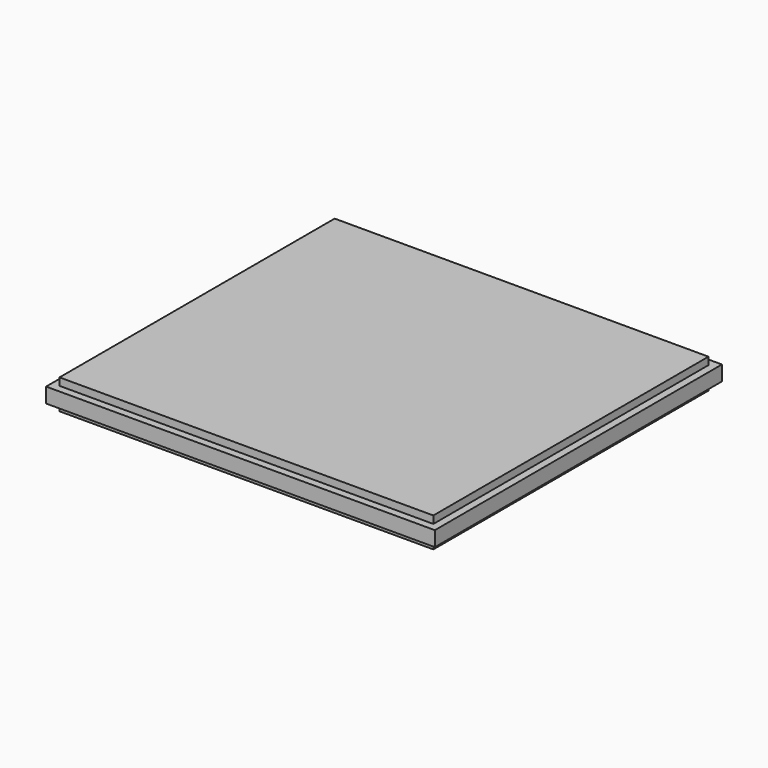
from build123d import *

# Parameters (mm, degrees)
F0_W     = 317.5
F0_H     = 292.1
F1_DEPTH = 25.4
F2_W     = 292.1
F2_H     = 12.7
F3_DEPTH = 6.35
F4_W     = 292.1
F4_H     = 12.7
F5_DEPTH = 6.35
F7_DEPTH = 6.35
F8_W     = 330.2
F8_H     = 12.7
F9_DEPTH = 6.35


with BuildPart() as f1:
    # F0 (on Top) → F1 (new body)
    with BuildSketch(Plane.XY):
        Rectangle(F0_W, F0_H)
    extrude(amount=F1_DEPTH)

    # F2 (on face) → F3 (join)
    with BuildSketch(Plane.YZ.offset(158.75)):
        with Locations((0, 12.7)):
            Rectangle(F2_W, F2_H)
    extrude(amount=F3_DEPTH)

    # F4 (on face) → F5 (join)
    with BuildSketch(Plane(origin=(-158.75, 0, 0), x_dir=(0, -1, 0), z_dir=(-1, 0, 0))):
        with Locations((0, 12.7)):
            Rectangle(F4_W, F4_H)
    extrude(amount=F5_DEPTH)

    # F6 (on face) → F7 (join)
    with BuildSketch(Plane(origin=(0, 146.05, 0), x_dir=(-1, 0, 0), z_dir=(0, 1, 0))):
        Polygon((-158.75, 19.05), (-165.1, 19.05), (-165.1, 6.35), (-158.75, 6.35), (158.75, 6.35), (165.1, 6.35), (165.1, 19.05), (158.75, 19.05), align=None)
    extrude(amount=F7_DEPTH)

    # F8 (on face) → F9 (join)
    with BuildSketch(Plane.XZ.offset(146.05)):
        with Locations((0, 12.7)):
            Rectangle(F8_W, F8_H)
    extrude(amount=F9_DEPTH)


solid = f1.part
